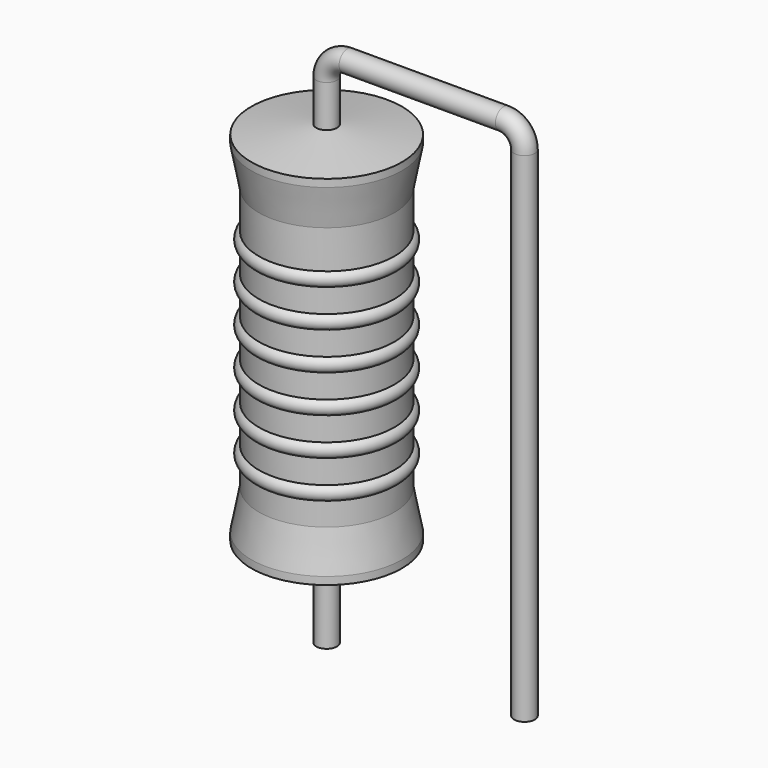
from build123d import *

# Parameters (mm, degrees)
SKETCH_R = 0.4


with BuildPart() as revolution:
    # Sketch002 → Revolution (revolve)
    with BuildSketch(Plane.XZ):
        Polygon((0, 0.1), (0, 14.6), (0.3, 14.6), (2.9, 14.2375), (2.9, 13.945), (2.61, 12.425), (2.61, 2.275), (2.9, 0.755), (2.9, 0.4625), (0.3, 0.1), align=None)
    revolve(axis=Axis((0, 0, 0), (0, 0, 1)))


with BuildPart() as sweep_body:
    # Sweep: sweep along a path in Sketch001
    with BuildLine(Plane.XZ) as sweep_path:
        Line((0, -3), (0, 16.2))
        ThreePointArc((0, 16.2), (0.234312, 16.765683), (0.799993, 17))
        Line((0.799993, 17), (6.82, 17))
        ThreePointArc((6.82, 17), (7.385685, 16.765685), (7.62, 16.2))
        Line((7.62, 16.2), (7.62, -3))
    # Sketch → Sweep (sweep)
    with BuildSketch(Plane.XY.offset(-2)):
        Circle(SKETCH_R)
    sweep(path=sweep_path.line)


with BuildPart() as obj1:
    # Sketch003 → Revolution001 (revolve)
    with BuildSketch(Plane.XZ):
        with BuildLine():
            Line((2.32, 11.845), (2.32, 2.275))
            Line((2.32, 2.275), (2.494, 2.275))
            Line((2.494, 2.275), (2.494, 3.145))
            ThreePointArc((2.494, 3.145), (2.784, 3.435), (2.494, 3.725))
            Line((2.494, 3.725), (2.494, 4.595))
            ThreePointArc((2.494, 4.595), (2.784, 4.885), (2.494, 5.175))
            Line((2.494, 5.175), (2.494, 6.045))
            ThreePointArc((2.494, 6.045), (2.784, 6.335), (2.494, 6.625))
            Line((2.494, 6.625), (2.494, 7.495))
            ThreePointArc((2.494, 7.495), (2.784, 7.785), (2.494, 8.075))
            Line((2.494, 8.075), (2.494, 8.945))
            ThreePointArc((2.494, 8.945), (2.784, 9.235), (2.494, 9.525))
            Line((2.494, 9.525), (2.494, 10.395))
            ThreePointArc((2.494, 10.395), (2.784, 10.685), (2.494, 10.975))
            Line((2.494, 11.845), (2.494, 10.975))
            Line((2.32, 11.845), (2.494, 11.845))
        make_face()
    revolve(axis=Axis((0, 0, 0), (0, 0, 1)))

    # obj1: union Revolution, Sweep body
    add(revolution.part)
    add(sweep_body.part)


solid = obj1.part
